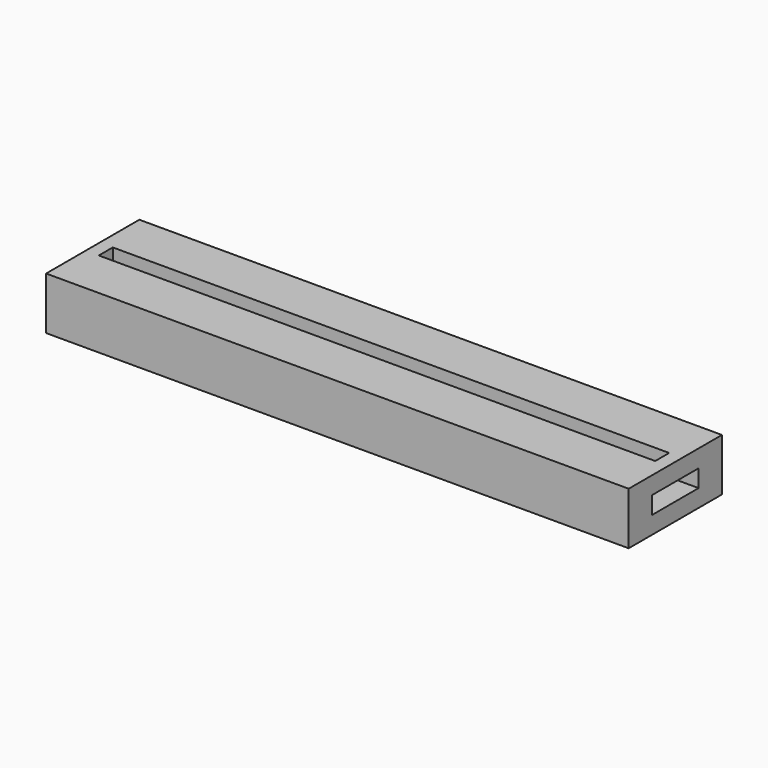
from build123d import *

# Parameters (mm, degrees)
SKETCH_W      = 100
SKETCH_H      = 20
PAD_DEPTH     = 3
SKETCH001_W   = 100
SKETCH001_H   = 5
PAD001_DEPTH  = 3
SKETCH002_W   = 100
SKETCH002_H   = 20
SKETCH002_W_2 = 95.5
SKETCH002_H_2 = 3
PAD002_DEPTH  = 3


with BuildPart() as part:
    # Sketch → Pad (new body)
    with BuildSketch(Plane.XY):
        Rectangle(SKETCH_W, SKETCH_H)
    extrude(amount=PAD_DEPTH)

    # Sketch001 (on Face6 of Pad) → Pad001 (join)
    with BuildSketch(Plane.XY.offset(3)):
        with Locations((0, 7.5)):
            Rectangle(SKETCH001_W, SKETCH001_H)
        with Locations((0, -7.5)):
            Rectangle(SKETCH001_W, SKETCH001_H)
    extrude(amount=PAD001_DEPTH)

    # Sketch002 (on Face12 of Pad001) → Pad002 (join)
    with BuildSketch(Plane.XY.offset(6)):
        Rectangle(SKETCH002_W, SKETCH002_H)
        Rectangle(SKETCH002_W_2, SKETCH002_H_2, mode=Mode.SUBTRACT)
    extrude(amount=PAD002_DEPTH)


solid = part.part
